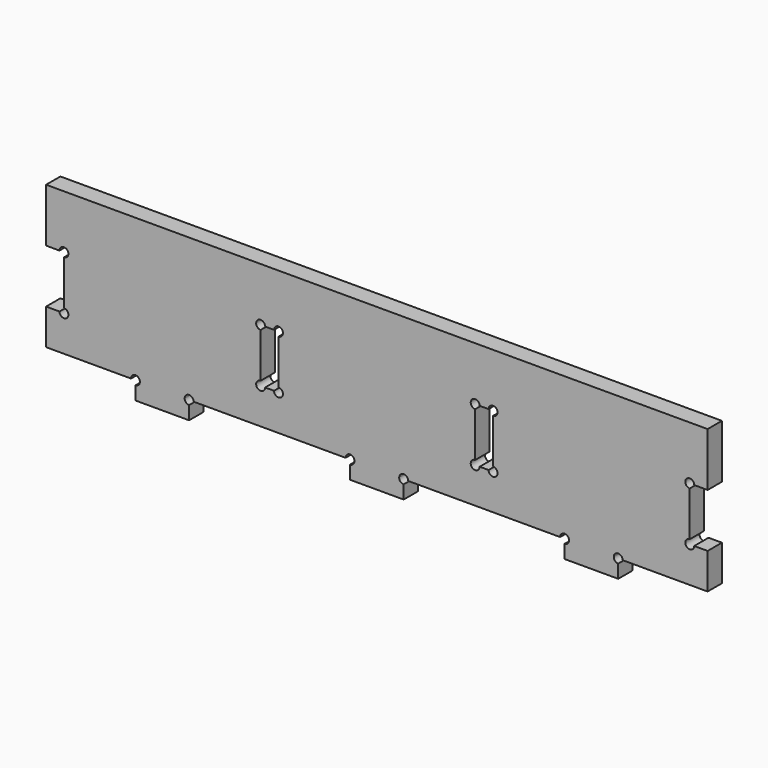
from build123d import *

# Parameters (mm, degrees)
F1_DEPTH = 6.35


with BuildPart() as f1:
    # F0 (on Front) → F1 (new body)
    with BuildSketch(Plane.XZ):
        with BuildLine():
            Line((155.086583, 34.469813), (-79.863417, 34.469813))
            Line((-79.863417, 34.469813), (-79.863417, 15.419813))
            Line((-79.863417, 15.419813), (-75.100917, 15.419813))
            ThreePointArc((-75.100917, 15.419813), (-73.513417, 17.007313), (-71.925917, 15.419813))
            ThreePointArc((-71.925917, 15.419813), (-72.390885, 14.297281), (-73.513417, 13.832313))
            Line((-73.513417, 13.832313), (-73.513417, -2.042687))
            ThreePointArc((-73.513417, -2.042687), (-72.390885, -2.507655), (-71.925917, -3.630187))
            ThreePointArc((-71.925917, -3.630187), (-73.513417, -5.217687), (-75.100917, -3.630187))
            Line((-75.100917, -3.630187), (-79.863417, -3.630187))
            Line((-79.863417, -3.630187), (-79.863417, -16.330187))
            Line((-79.863417, -16.330187), (-49.700917, -16.330187))
            ThreePointArc((-49.700917, -16.330187), (-48.113417, -14.742687), (-46.525917, -16.330187))
            Line((-46.525917, -16.330187), (-30.650917, -16.330187))
            ThreePointArc((-30.650917, -16.330187), (-29.063417, -14.742687), (-27.475917, -16.330187))
            Line((-27.475917, -16.330187), (26.499083, -16.330187))
            ThreePointArc((26.499083, -16.330187), (28.086583, -14.742687), (29.674083, -16.330187))
            Line((29.674083, -16.330187), (45.549083, -16.330187))
            ThreePointArc((45.549083, -16.330187), (47.136583, -14.742687), (48.724083, -16.330187))
            Line((48.724083, -16.330187), (102.699083, -16.330187))
            ThreePointArc((102.699083, -16.330187), (104.286583, -14.742687), (105.874083, -16.330187))
            Line((105.874083, -16.330187), (121.749083, -16.330187))
            ThreePointArc((121.749083, -16.330187), (123.336583, -14.742687), (124.924083, -16.330187))
            Line((124.924083, -16.330187), (155.086583, -16.330187))
            Line((155.086583, -16.330187), (155.086583, -3.630187))
            Line((155.086583, -3.630187), (150.324083, -3.630187))
            ThreePointArc((150.324083, -3.630187), (147.614051, -4.752719), (148.736583, -2.042687))
            Line((148.736583, -2.042687), (148.736583, 13.832313))
            ThreePointArc((148.736583, 13.832313), (147.614051, 16.542345), (150.324083, 15.419813))
            Line((150.324083, 15.419813), (155.086583, 15.419813))
            Line((155.086583, 15.419813), (155.086583, 34.469813))
        make_face()
        with BuildLine():
            ThreePointArc((-3.663417, 13.832313), (-4.785949, 16.542345), (-2.075917, 15.419813))
            Line((-2.075917, 15.419813), (1.099083, 15.419813))
            ThreePointArc((1.099083, 15.419813), (2.686583, 17.007313), (4.274083, 15.419813))
            ThreePointArc((4.274083, 15.419813), (3.809115, 14.297281), (2.686583, 13.832313))
            Line((2.686583, 13.832313), (2.686583, -2.042687))
            ThreePointArc((2.686583, -2.042687), (3.809115, -2.507655), (4.274083, -3.630187))
            ThreePointArc((4.274083, -3.630187), (2.686583, -5.217687), (1.099083, -3.630187))
            Line((1.099083, -3.630187), (-2.075917, -3.630187))
            ThreePointArc((-2.075917, -3.630187), (-4.785949, -4.752719), (-3.663417, -2.042687))
            Line((-3.663417, -2.042687), (-3.663417, 13.832313))
        make_face(mode=Mode.SUBTRACT)
        with BuildLine():
            ThreePointArc((72.536583, 13.832313), (71.414051, 16.542345), (74.124083, 15.419813))
            Line((74.124083, 15.419813), (77.299083, 15.419813))
            ThreePointArc((77.299083, 15.419813), (78.886583, 17.007313), (80.474083, 15.419813))
            ThreePointArc((80.474083, 15.419813), (80.009115, 14.297281), (78.886583, 13.832313))
            Line((78.886583, 13.832313), (78.886583, -2.042687))
            ThreePointArc((78.886583, -2.042687), (80.009115, -2.507655), (80.474083, -3.630187))
            ThreePointArc((80.474083, -3.630187), (78.886583, -5.217687), (77.299083, -3.630187))
            Line((77.299083, -3.630187), (74.124083, -3.630187))
            ThreePointArc((74.124083, -3.630187), (71.414051, -4.752719), (72.536583, -2.042687))
            Line((72.536583, -2.042687), (72.536583, 13.832313))
        make_face(mode=Mode.SUBTRACT)
        with BuildLine():
            Line((-30.650917, -16.330187), (-46.525917, -16.330187))
            ThreePointArc((-46.525917, -16.330187), (-46.990885, -17.452719), (-48.113417, -17.917687))
            Line((-48.113417, -17.917687), (-48.113417, -22.680187))
            Line((-48.113417, -22.680187), (-29.063417, -22.680187))
            Line((-29.063417, -22.680187), (-29.063417, -17.917687))
            ThreePointArc((-29.063417, -17.917687), (-30.185949, -17.452719), (-30.650917, -16.330187))
        make_face()
        with BuildLine():
            Line((45.549083, -16.330187), (29.674083, -16.330187))
            ThreePointArc((29.674083, -16.330187), (29.209115, -17.452719), (28.086583, -17.917687))
            Line((28.086583, -17.917687), (28.086583, -22.680187))
            Line((28.086583, -22.680187), (47.136583, -22.680187))
            Line((47.136583, -22.680187), (47.136583, -17.917687))
            ThreePointArc((47.136583, -17.917687), (46.014051, -17.452719), (45.549083, -16.330187))
        make_face()
        with BuildLine():
            ThreePointArc((123.336583, -17.917687), (122.214051, -17.452719), (121.749083, -16.330187))
            Line((121.749083, -16.330187), (105.874083, -16.330187))
            ThreePointArc((105.874083, -16.330187), (105.409115, -17.452719), (104.286583, -17.917687))
            Line((104.286583, -17.917687), (104.286583, -22.680187))
            Line((104.286583, -22.680187), (123.336583, -22.680187))
            Line((123.336583, -22.680187), (123.336583, -17.917687))
        make_face()
    extrude(amount=F1_DEPTH)


solid = f1.part
